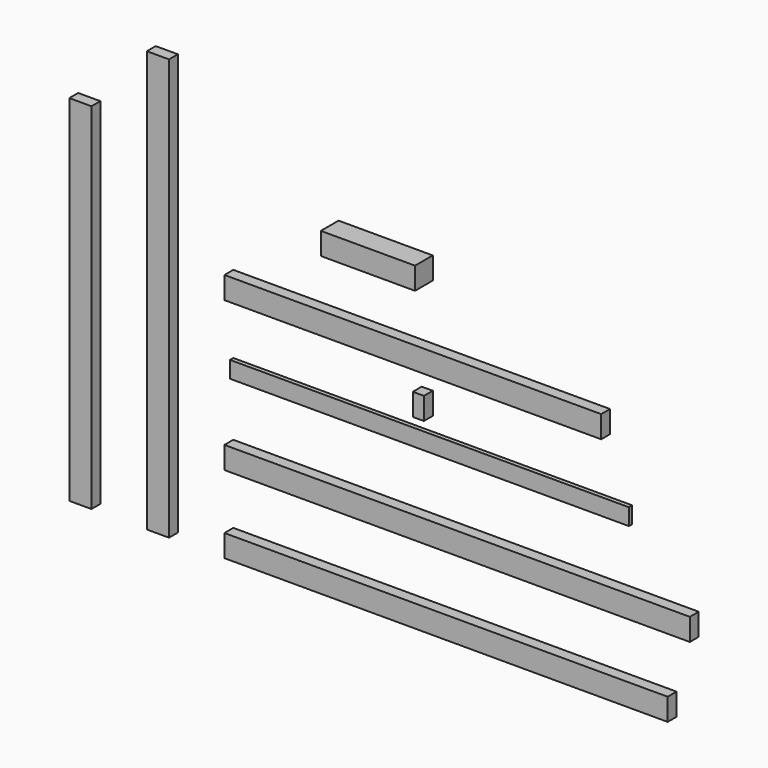
from build123d import *

# Parameters (mm, degrees)
F2_W      = 1828.8
F2_H      = 76.2
F3_DEPTH  = 19.05
F4_W      = 2133.6
F4_H      = 101.6
F5_DEPTH  = 50.8
F6_W      = 2032
F6_H      = 101.6
F7_DEPTH  = 50.8
F8_W      = 1727.2
F8_H      = 101.6
F9_DEPTH  = 50.8
F10_W     = 50.8
F10_H     = 101.6
F11_DEPTH = 50.8
F12_W     = 431.8
F12_H     = 101.6
F13_DEPTH = 101.6
F14_W     = 101.6
F14_H     = 1930.4
F15_DEPTH = 50.8
F16_W     = 101.6
F16_H     = 1625.6
F17_DEPTH = 50.8


with BuildPart() as f3:
    # F2 (on Front) → F3 (new body)
    with BuildSketch(Plane.XZ):
        Rectangle(F2_W, F2_H)
    extrude(amount=F3_DEPTH)


with BuildPart() as f5:
    # F4 (on Front) → F5 (new body)
    with BuildSketch(Plane.XZ):
        with Locations((152.4, -342.9)):
            Rectangle(F4_W, F4_H)
    extrude(amount=F5_DEPTH)


with BuildPart() as f7:
    # F6 (on Front) → F7 (new body)
    with BuildSketch(Plane.XZ):
        with Locations((101.6, -698.5)):
            Rectangle(F6_W, F6_H)
    extrude(amount=F7_DEPTH)


with BuildPart() as f9:
    # F8 (on Front) → F9 (new body)
    with BuildSketch(Plane.XZ):
        with Locations((-50.8, 342.9)):
            Rectangle(F8_W, F8_H)
    extrude(amount=F9_DEPTH)


with BuildPart() as f11:
    # F10 (on Front) → F11 (new body)
    with BuildSketch(Plane.XZ):
        with Locations((-25.4, 152.4)):
            Rectangle(F10_W, F10_H)
    extrude(amount=F11_DEPTH)


with BuildPart() as f13:
    # F12 (on Front) → F13 (new body)
    with BuildSketch(Plane.XZ):
        with Locations((-215.9, 698.5)):
            Rectangle(F12_W, F12_H)
    extrude(amount=F13_DEPTH)


with BuildPart() as f15:
    # F14 (on Front) → F15 (new body)
    with BuildSketch(Plane.XZ):
        with Locations((-1219.2, 215.9)):
            Rectangle(F14_W, F14_H)
    extrude(amount=F15_DEPTH)


with BuildPart() as f17:
    # F16 (on Front) → F17 (new body)
    with BuildSketch(Plane.XZ):
        with Locations((-1574.8, 63.5)):
            Rectangle(F16_W, F16_H)
    extrude(amount=F17_DEPTH)


solid = Compound([f3.part, f5.part, f7.part, f9.part, f11.part, f13.part, f15.part, f17.part])
